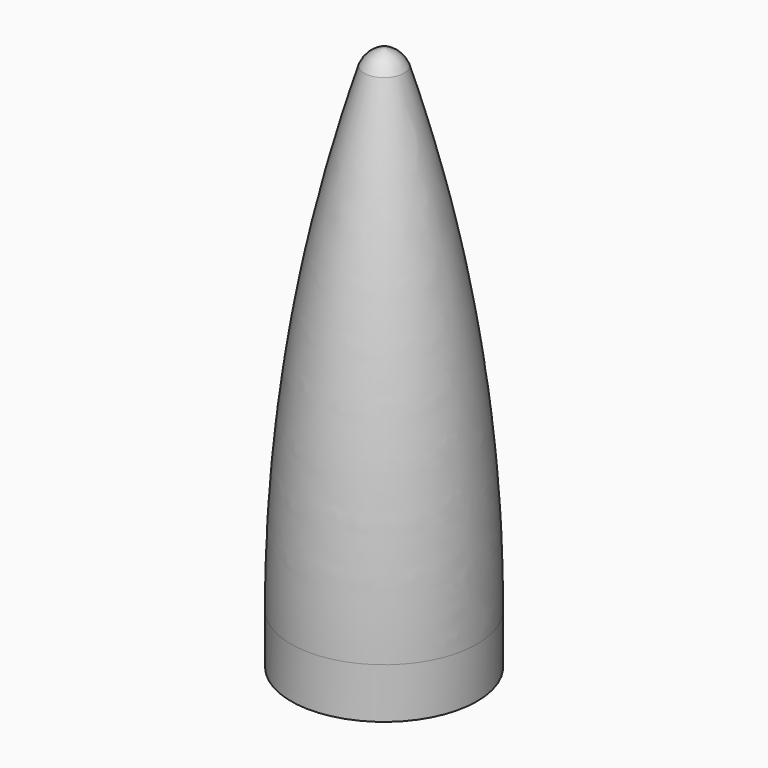
from build123d import *


with BuildPart() as f1:
    # F0 (on Front) → F1 (revolve)
    with BuildSketch(Plane.XZ):
        with BuildLine():
            Line((0, 0), (13.6525, 0))
            Line((13.6525, 0), (14.3002, 0))
            Line((14.3002, 0), (15.1892, 0))
            Line((15.1892, 0), (15.1892, 9.525))
            ThreePointArc((15.1892, 9.525), (11.747105, 55.379186), (1.497969, 100.205624))
            Line((1.497969, 100.205624), (0, 101.124195))
            Line((0, 101.124195), (0, 100.340235))
            Line((0, 100.340235), (0, 99.070235))
            Line((0, 99.070235), (0, 53.895291))
            Line((0, 53.895291), (0, 0))
        make_face()
        with BuildLine():
            Line((15.1892, 9.525), (15.1892, 0))
            Line((15.1892, 0), (17.4625, 0))
            Line((17.4625, 0), (17.4752, 0))
            Line((17.4752, 0), (17.609576, 0))
            Line((17.609576, 0), (17.609576, 9.525))
            ThreePointArc((17.609576, 9.525), (14.133318, 55.389264), (3.783969, 100.205624))
            ThreePointArc((3.783969, 100.205624), (2.296259, 102.206523), (0, 103.178156))
            Line((0, 103.178156), (0, 101.908156))
            Line((0, 101.908156), (0, 101.124195))
            Line((0, 101.124195), (1.497969, 100.205624))
            ThreePointArc((1.497969, 100.205624), (11.747105, 55.379186), (15.1892, 9.525))
        make_face()
    revolve(axis=Axis((0, 0, 55.5625), (0, 0, 1)))


solid = f1.part
